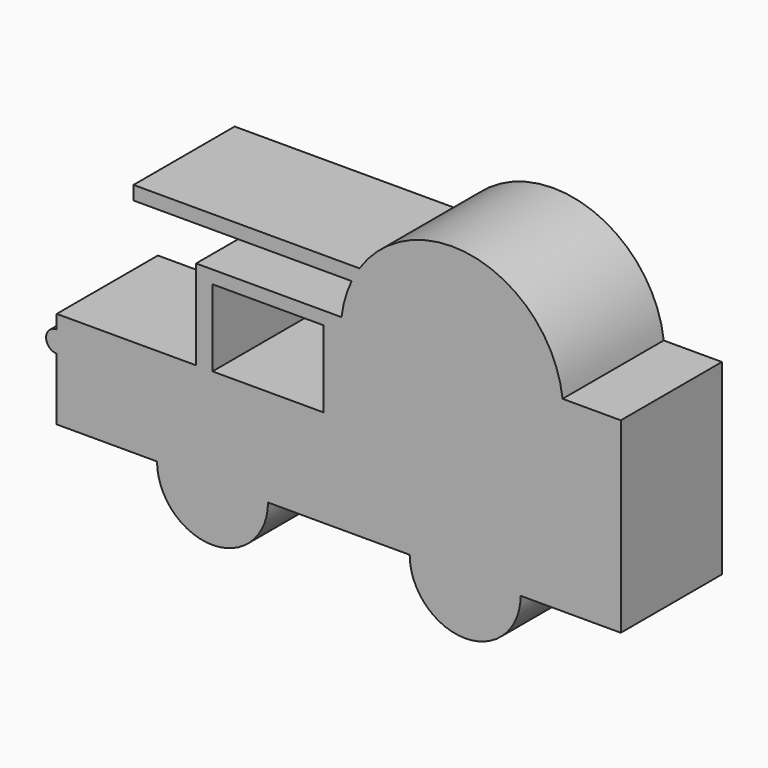
from build123d import *

# Parameters (mm, degrees)
F0_W     = 33.4296151996
F0_H     = 3.9195679128
F1_DEPTH = 38.1


with BuildPart() as f1:
    # F0 (on Front) → F1 (new body)
    with BuildSketch(Plane.XZ):
        with BuildLine():
            Line((-46.9437241554, 0), (-16.7204460188, 0))
            ThreePointArc((-16.7204460188, 0), (-11.8231407644, 11.8231407644), (0, 16.7204460188))
            Line((0, 16.7204460188), (0, 29.3398257345))
            Line((0, 29.3398257345), (-4.9445480108, 29.3398257345))
            Line((-4.9445480108, 29.3398257345), (-46.9437241554, 29.3398257345))
            Line((-46.9437241554, 29.3398257345), (-46.9437241554, 25.2128107528))
            ThreePointArc((-46.9437241554, 25.2128107528), (-44.6705039792, 24.2712121255), (-43.728905352, 21.9979919493))
            ThreePointArc((-43.728905352, 21.9979919493), (-44.6705039792, 19.7247717731), (-46.9437241554, 18.7831731459))
            Line((-46.9437241554, 18.7831731459), (-46.9437241554, 0))
        make_face()
        with BuildLine():
            Line((0, 29.3398257345), (0, 16.7204460188))
            ThreePointArc((0, 16.7204460188), (11.8231407644, 11.8231407644), (16.7204460188, 0))
            Line((16.7204460188, 0), (59.4266110972, 0))
            ThreePointArc((59.4266110972, 0), (76.147057116, 16.7204460188), (92.8675031348, 0))
            Line((92.8675031348, 0), (123.0494529009, 0))
            Line((123.0494529009, 0), (123.0494529009, 52.4560548365))
            Line((123.0494529009, 52.4560548365), (105.7427554758, 52.4560548365))
            ThreePointArc((105.7427554758, 52.4560548365), (72.193749249, 18.9070486097), (38.6447430221, 52.4560548365))
            Line((38.6447430221, 52.4560548365), (33.4296151996, 52.4560548365))
            Line((33.4296151996, 52.4560548365), (33.4296151996, 29.3398257345))
            Line((33.4296151996, 29.3398257345), (0, 29.3398257345))
        make_face()
        with BuildLine():
            ThreePointArc((41.9306404767, 66.9363886118), (39.967025639, 61.7820456244), (38.8744934622, 56.3756227493))
            Line((38.8744934622, 56.3756227493), (105.5130050358, 56.3756227493))
            ThreePointArc((105.5130050358, 56.3756227493), (80.031581928, 85.0766648508), (44.2923414138, 71.0852593184))
            Line((44.2923414138, 71.0852593184), (50.4994764924, 71.0852593184))
            Line((50.4994764924, 71.0852593184), (50.4994764924, 66.9363886118))
            Line((50.4994764924, 66.9363886118), (41.9306404767, 66.9363886118))
        make_face()
        with BuildLine():
            ThreePointArc((38.8744934622, 56.3756227493), (38.7022298846, 54.4192026842), (38.6447430221, 52.4560548365))
            Line((38.6447430221, 52.4560548365), (105.7427554758, 52.4560548365))
            ThreePointArc((105.7427554758, 52.4560548365), (105.6852686134, 54.4192026842), (105.5130050358, 56.3756227493))
            Line((105.5130050358, 56.3756227493), (38.8744934622, 56.3756227493))
        make_face()
        with BuildLine():
            Line((105.7427554758, 52.4560548365), (38.6447430221, 52.4560548365))
            ThreePointArc((38.6447430221, 52.4560548365), (72.193749249, 18.9070486097), (105.7427554758, 52.4560548365))
        make_face()
        with BuildLine():
            Line((105.7427554758, 52.4560548365), (123.0494529009, 52.4560548365))
            Line((123.0494529009, 52.4560548365), (123.0494529009, 56.3756227493))
            Line((123.0494529009, 56.3756227493), (105.5130050358, 56.3756227493))
            ThreePointArc((105.5130050358, 56.3756227493), (105.6852686134, 54.4192026842), (105.7427554758, 52.4560548365))
        make_face()
        with BuildLine():
            Line((33.4296151996, 56.3756227493), (33.4296151996, 52.4560548365))
            Line((33.4296151996, 52.4560548365), (38.6447430221, 52.4560548365))
            ThreePointArc((38.6447430221, 52.4560548365), (38.7022298846, 54.4192026842), (38.8744934622, 56.3756227493))
            Line((38.8744934622, 56.3756227493), (33.4296151996, 56.3756227493))
        make_face()
        with BuildLine():
            ThreePointArc((44.2923414138, 71.0852593184), (43.0376001535, 69.0528855198), (41.9306404767, 66.9363886118))
            Line((41.9306404767, 66.9363886118), (50.4994764924, 66.9363886118))
            Line((50.4994764924, 66.9363886118), (50.4994764924, 71.0852593184))
            Line((50.4994764924, 71.0852593184), (44.2923414138, 71.0852593184))
        make_face()
        with Locations((16.7148075998, 54.4158387929)):
            Rectangle(F0_W, F0_H)
        Polygon((-4.9445480108, 29.3398257345), (0, 29.3398257345), (0, 52.4560548365), (0, 56.3756227493), (-4.9445480108, 56.3756227493), align=None)
        with BuildLine():
            Line((-23.8030608743, 66.9363886118), (41.9306404767, 66.9363886118))
            ThreePointArc((41.9306404767, 66.9363886118), (43.0376001535, 69.0528855198), (44.2923414138, 71.0852593184))
            Line((44.2923414138, 71.0852593184), (-23.8030608743, 71.0852593184))
            Line((-23.8030608743, 71.0852593184), (-23.8030608743, 66.9363886118))
        make_face()
        with BuildLine():
            Line((-16.7204460188, 0), (0, 0))
            Line((0, 0), (0, 16.7204460188))
            ThreePointArc((0, 16.7204460188), (-11.8231407644, 11.8231407644), (-16.7204460188, 0))
        make_face()
        with BuildLine():
            Line((0, 16.7204460188), (0, 0))
            Line((0, 0), (16.7204460188, 0))
            ThreePointArc((16.7204460188, 0), (11.8231407644, 11.8231407644), (0, 16.7204460188))
        make_face()
        with BuildLine():
            Line((16.7204460188, 0), (0, 0))
            Line((0, 0), (-16.7204460188, 0))
            ThreePointArc((-16.7204460188, 0), (0, -16.7204460188), (16.7204460188, 0))
        make_face()
        with BuildLine():
            ThreePointArc((92.8675031348, 0), (76.147057116, 16.7204460188), (59.4266110972, 0))
            Line((59.4266110972, 0), (92.8675031348, 0))
        make_face()
        with BuildLine():
            Line((92.8675031348, 0), (59.4266110972, 0))
            ThreePointArc((59.4266110972, 0), (76.147057116, -16.7204460188), (92.8675031348, 0))
        make_face()
        with BuildLine():
            ThreePointArc((-46.9437241554, 25.2128107528), (-50.1585429589, 21.9979919493), (-46.9437241554, 18.7831731459))
            Line((-46.9437241554, 18.7831731459), (-46.9437241554, 25.2128107528))
        make_face()
        with BuildLine():
            Line((-46.9437241554, 25.2128107528), (-46.9437241554, 18.7831731459))
            ThreePointArc((-46.9437241554, 18.7831731459), (-44.6705039792, 19.7247717731), (-43.728905352, 21.9979919493))
            ThreePointArc((-43.728905352, 21.9979919493), (-44.6705039792, 24.2712121255), (-46.9437241554, 25.2128107528))
        make_face()
    extrude(amount=F1_DEPTH)


solid = f1.part
